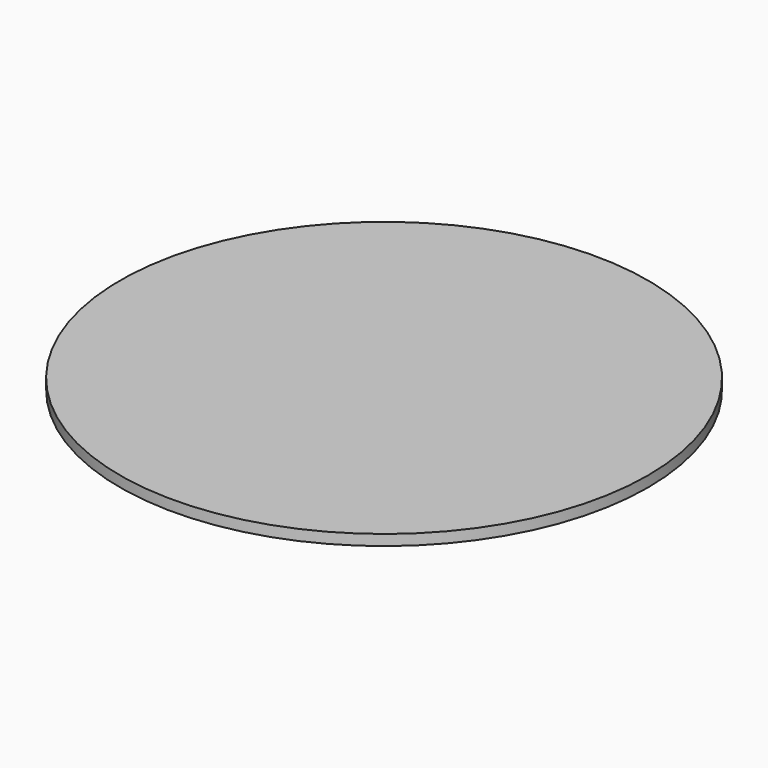
from build123d import *

# Parameters (mm, degrees)
SKETCH_R  = 49.5
PAD_DEPTH = 2


with BuildPart() as part:
    # Sketch → Pad (new body)
    with BuildSketch(Plane.XY):
        Circle(SKETCH_R)
    extrude(amount=PAD_DEPTH)


solid = part.part
